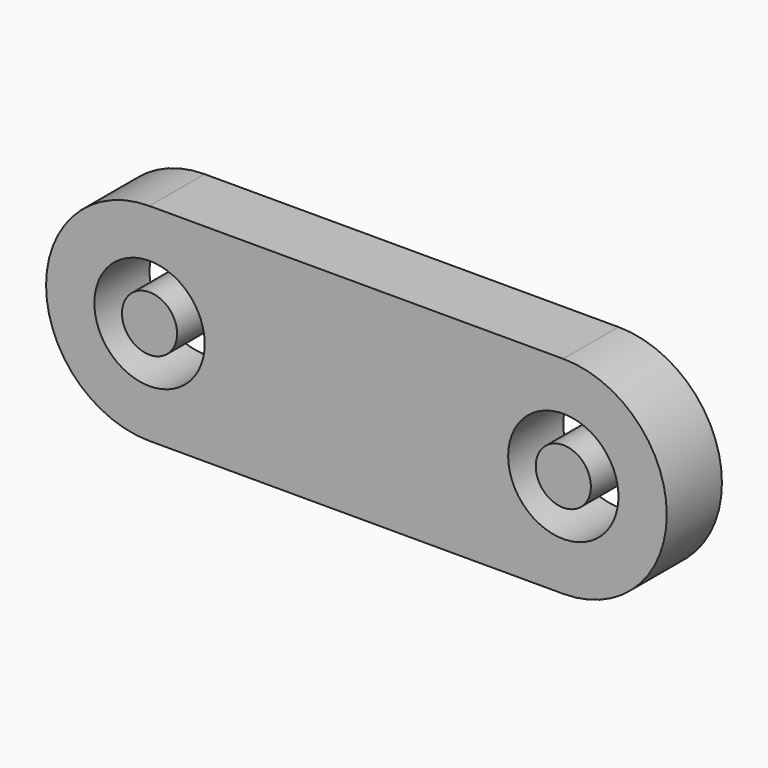
from build123d import *

# Parameters (mm, degrees)
F0_R     = 4
F1_DEPTH = 5
F2_R     = 2
F3_DEPTH = 5


with BuildPart() as f1:
    # F0 (on Front) → F1 (new body)
    with BuildSketch(Plane.XZ):
        with BuildLine():
            Line((30, 7.5), (0, 7.5))
            ThreePointArc((0, 7.5), (-7.5, 0), (0, -7.5))
            Line((0, -7.5), (30, -7.5))
            ThreePointArc((30, -7.5), (37.5, 0), (30, 7.5))
        make_face()
        Circle(F0_R, mode=Mode.SUBTRACT)
        with BuildLine():
            ThreePointArc((34, 0), (30, -4), (26, 0))
            ThreePointArc((26, 0), (30, 4), (34, 0))
        make_face(mode=Mode.SUBTRACT)
    extrude(amount=F1_DEPTH)


with BuildPart() as f3:
    # F2 (on face) → F3 (new body)
    with BuildSketch(Plane.XZ.offset(5)):
        with Locations((30, 0)):
            Circle(F2_R)
        Circle(F2_R)
    extrude(amount=-F3_DEPTH)


solid = Compound([f1.part, f3.part])
